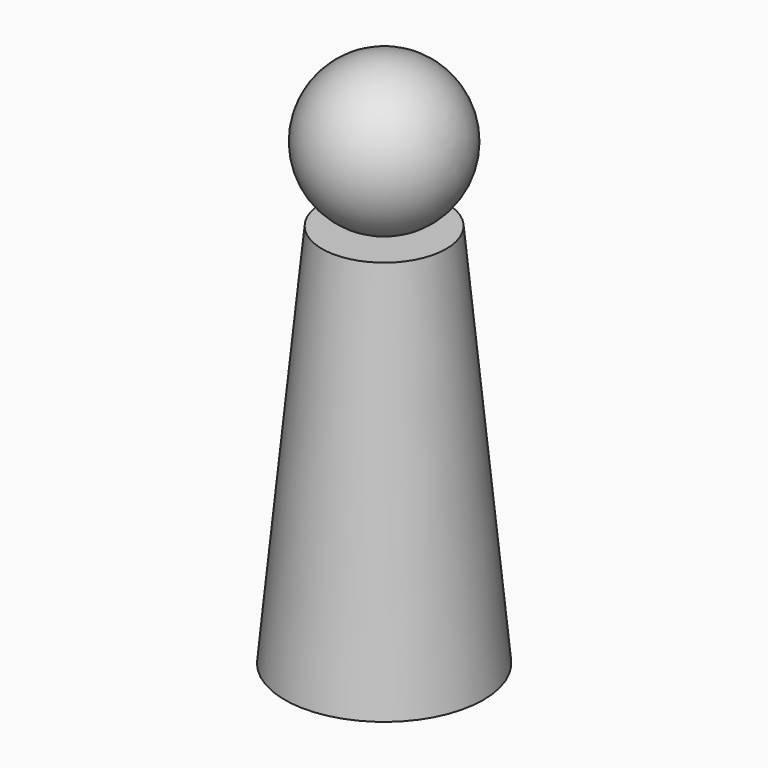
from build123d import *


with BuildPart() as body:
    # Sketch → Revolution (revolve)
    with BuildSketch(Plane.XZ):
        Polygon((0, 0), (8, 0), (5, 31), (0, 31), align=None)
    revolve(axis=Axis((0, 0, 0), (0, 0, 1)))


with BuildPart() as sphere:
    # Sphere → Sphere (revolve)
    with BuildSketch(Plane(origin=(0, 0, 37), x_dir=(1, 0, 0), z_dir=(0, -1, 0))):
        with BuildLine():
            ThreePointArc((0, -6), (6, 0), (0, 6))
            Line((0, 6), (0, -6))
        make_face()
    revolve(axis=Axis((0, 0, 37), (0, 0, 1)))


solid = Compound([body.part, sphere.part])
